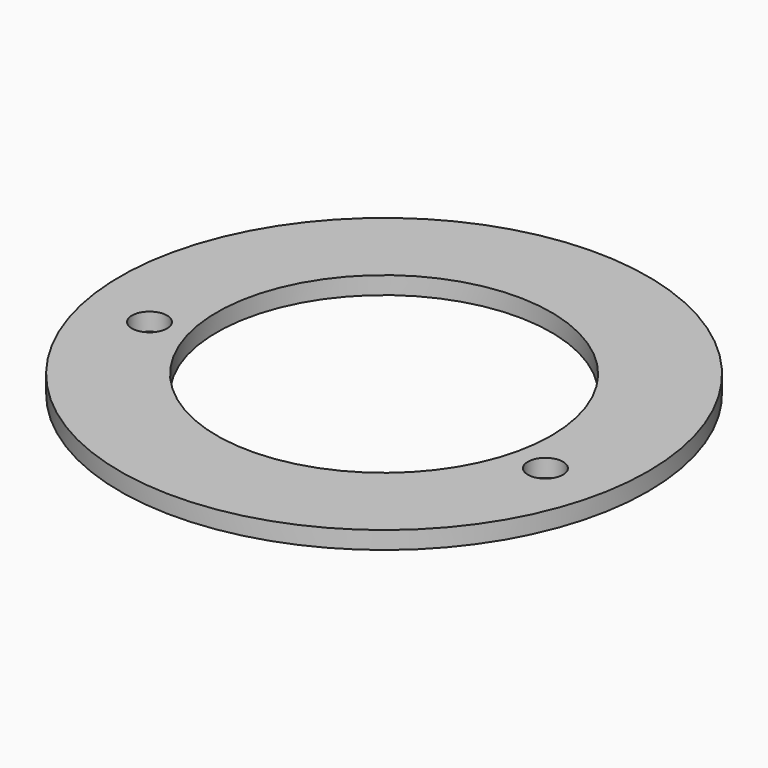
from build123d import *

# Parameters (mm, degrees)
SKETCH023_R     = 30
SKETCH023_R_2   = 19
PAD007_DEPTH    = 2
SKETCH125_R     = 2
POCKET053_DEPTH = 171.753761


with BuildPart() as part:
    # Sketch023 → Pad007 (new body)
    with BuildSketch(Plane.XY):
        Circle(SKETCH023_R)
        Circle(SKETCH023_R_2, mode=Mode.SUBTRACT)
    extrude(amount=PAD007_DEPTH)

    # Sketch125 → Pocket053 (cut, through all)
    with BuildSketch(Plane.XY.offset(2)):
        with Locations((-22.5, -5.2)):
            Circle(SKETCH125_R)
    pocket053 = extrude(amount=-POCKET053_DEPTH, mode=Mode.SUBTRACT)

    # Mirrored: Pocket053 across Sketch125 V_Axis
    add(pocket053.mirror(Plane(origin=(0, 0, 2), x_dir=(0, 0, 1), z_dir=(1, 0, 0))), mode=Mode.SUBTRACT)


with BuildPart() as part_1:
    # Body007 placement: moved
    add(part.part.moved(Location((0, 0, 64))))


solid = part_1.part
